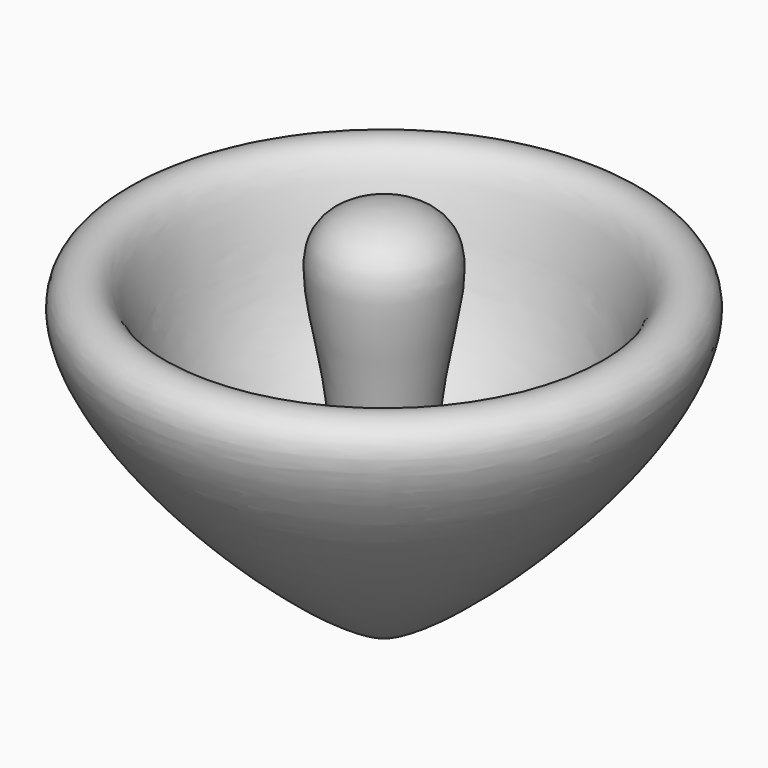
from build123d import *


with BuildPart() as f1:
    # F0 (on Front) → F1 (revolve)
    with BuildSketch(Plane.XZ):
        with BuildLine():
            Line((0, 0), (0, 40.4409007859))
            add(Edge.make_bspline(
                [(0, 0), (-6.0735156515, 2.061719294), (-24.6486680594, 18.9734763398), (-30.1546555787, 33.2746984427), (-21.5859904682, 35.6296534938), (-20.1823943981, 20.0693088574), (-4.1740408323, 8.217573091), (-4.401865494, 24.8270034217), (-8.8272912417, 38.4509254901), (-2.4775190577, 40.4409007859), (0, 40.4409007859)],
                knots=[0, 0, 0, 0, 0.1977105445, 0.324495389, 0.3958502653, 0.5291732223, 0.6596890991, 0.7780898944, 0.9080809641, 1, 1, 1, 1], degree=3))
        make_face()
    revolve(axis=Axis((0, 0, 6.4468998462), (0, 0, -1)))


solid = f1.part
